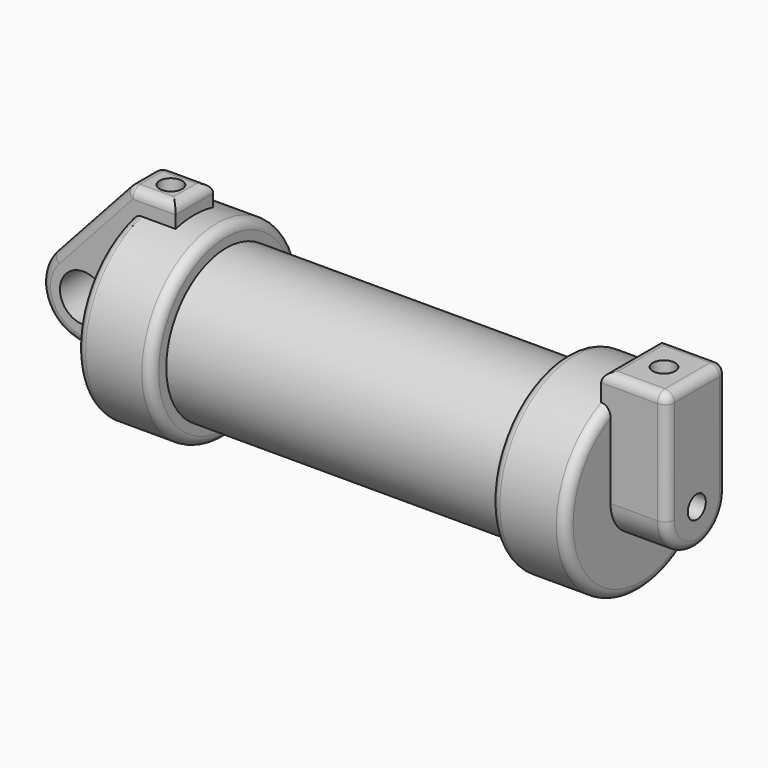
from build123d import *

# Parameters (mm, degrees)
F0_W          = 5.842
F0_H          = 12.7
F0_R          = 3.175
F2_DEPTH      = 3.175
F3_R          = 1.524
F4_DEPTH      = 7.62
F4_DEPTH_BACK = 1.27
F5_DEPTH      = 56.134
F7_R          = 1.524
F8_DEPTH      = 10.414
F6_R          = 1.524
F9_DEPTH      = 17.78
F10_R         = 1.27


with BuildPart() as f1:
    # F0 (on Front) → F1 (revolve)
    with BuildSketch(Plane.XZ):
        with Locations((2.921, 6.35)):
            Rectangle(F0_W, F0_H)
        Polygon((5.842, 12.7), (5.842, 0), (66.294, 0), (66.294, 12.7), (56.134, 12.7), (56.134, 10.16), (10.16, 10.16), (10.16, 12.7), align=None)
    revolve(axis=Axis((33.147, 0, 0), (-1, 0, 0)))

    # F0 (on Front) → F2 (join, symmetric)
    with BuildSketch(Plane.XZ):
        with BuildLine():
            Line((-0.9398, 0), (0, 0))
            Line((0, 0), (0, 12.7))
            Line((0, 12.7), (5.842, 12.7))
            Line((5.842, 12.7), (5.842, 15.24))
            Line((5.842, 15.24), (-0.508, 15.24))
            Line((-0.508, 15.24), (-10.8806298187, 3.8475430269))
            ThreePointArc((-10.8806298187, 3.8475430269), (-4.5919612295, 5.3297205562), (-0.9398, 0))
        make_face()
        with BuildLine():
            ThreePointArc((-8.1826630726, -5.5069827884), (-3.1957909266, -4.5493385486), (-0.9398, 0))
            ThreePointArc((-0.9398, 0), (-4.5919612295, 5.3297205562), (-10.8806298187, 3.8475430269))
            ThreePointArc((-10.8806298187, 3.8475430269), (-12.1459778134, -1.5837270034), (-8.1826630726, -5.5069827884))
        make_face()
        with Locations((-6.6548, 0)):
            Circle(F0_R, mode=Mode.SUBTRACT)
        with BuildLine():
            Line((5.842, 0), (0, 0))
            Line((0, 0), (-0.9398, 0))
            ThreePointArc((-0.9398, 0), (-3.1957909266, -4.5493385486), (-8.1826630726, -5.5069827884))
            Line((-8.1826630726, -5.5069827884), (5.842, -9.398))
            Line((5.842, -9.398), (5.842, 0))
        make_face()
        with Locations((2.921, 6.35)):
            Rectangle(F0_W, F0_H)
    extrude(amount=F2_DEPTH, both=True)

    # F3 (on face) → F4 (join, two sides)
    with BuildSketch(Plane.YZ.offset(66.294)) as f4_sk:
        with BuildLine():
            ThreePointArc((-5.08, 0), (0, -5.08), (5.08, 0))
            ThreePointArc((5.08, 0), (0, 5.08), (-5.08, 0))
        make_face()
        Circle(F3_R, mode=Mode.SUBTRACT)
        with BuildLine():
            ThreePointArc((-5.08, 0), (0, 5.08), (5.08, 0))
            Line((5.08, 0), (5.08, 15.24))
            Line((5.08, 15.24), (0, 15.24))
            Line((0, 15.24), (-5.08, 15.24))
            Line((-5.08, 15.24), (-5.08, 0))
        make_face()
    extrude(amount=F4_DEPTH)
    extrude(f4_sk.sketch, amount=-F4_DEPTH_BACK)

    # F5 (cut, through all): a face of the model
    f5_faces = [f1.faces().sort_by_distance(p)[0] for p in [
        (66.294, 0, 0),
    ]]
    extrude(f5_faces, amount=-F5_DEPTH, mode=Mode.SUBTRACT)

    # F7 (on face) → F8 (cut)
    with BuildSketch(Plane.XY.offset(15.24)):
        with Locations((69.469, 0)):
            Circle(F7_R)
    extrude(amount=-F8_DEPTH, mode=Mode.SUBTRACT)

    # F6 (on face) → F9 (cut)
    with BuildSketch(Plane.XY.offset(15.24)):
        with Locations((2.667, 0)):
            Circle(F6_R)
    extrude(amount=-F9_DEPTH, mode=Mode.SUBTRACT)

    # F10
    f10_edges = [f1.edges().sort_by_distance(p)[0] for p in [
        (10.16, 0, -12.7),
        (56.134, 0, -12.7),
        (0, 0, -12.7),
        (66.294, 0, -12.7),
        (2.667, -3.175, 15.24),
        (2.667, 3.175, 15.24),
        (5.842, 0, 15.24),
        (-0.508, 0, 15.24),
        (73.914, 0, 15.24),
        (69.469, -5.08, 15.24),
        (65.024, 0, 15.24),
        (69.469, 5.08, 15.24),
        (73.914, -5.08, 7.62),
        (73.914, 5.08, 7.62),
        (-5.694315, -3.175, 9.543772),
        (-5.694315, 3.175, 9.543772),
    ]]
    fillet(f10_edges, radius=F10_R)


solid = f1.part
